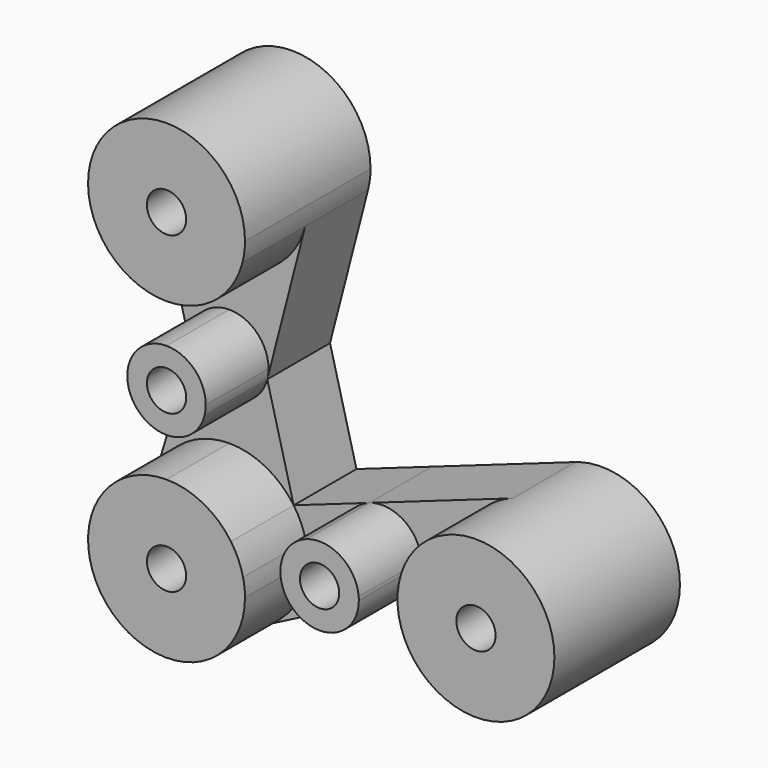
from build123d import *

# Parameters (mm, degrees)
F1_DEPTH = 50.8
F2_DEPTH = 25.4
F3_D     = 6.35
F3_2_D   = 6.35
F3_3_D   = 6.35
F3_4_D   = 6.35
F3_5_D   = 6.35
F4_D     = 12.7
F4_2_D   = 12.7
F4_3_D   = 12.7
F4_4_D   = 12.7
F4_5_D   = 12.7


with BuildPart() as f1:
    # F0 (on Front) → F1 (new body)
    with BuildSketch(Plane.XZ):
        with BuildLine():
            ThreePointArc((-275.2986628223, 8.8885812562), (-266.2594784405, -4.8418818859), (-250.7052185738, -10.1614187438))
            ThreePointArc((-250.7052185738, -10.1614187438), (-235.1509587072, -4.8418818859), (-226.1117743254, 8.8885812562))
            ThreePointArc((-226.1117743254, 8.8885812562), (-225.5076642886, 12.0380722271), (-225.3052185738, 15.2385812562))
            ThreePointArc((-225.3052185738, 15.2385812562), (-253.9057276029, 40.4361355414), (-275.2986628223, 8.8885812562))
        make_face()
    extrude(amount=F1_DEPTH)

    # F3 (through all)
    with Locations(Plane(origin=(0, 0, 0), x_dir=(1, 0, 0), z_dir=(0, 1, 0))):
        with Locations((-250.7052185738, -15.2385812562), (-250.7052185738, 35.5614187438), (-250.7052185738, 86.3614187438), (-201.151381854, 75.1785181209), (-150.5429993109, 70.7703874091)):
            Hole(F3_D / 2)

    # F4 (through all)
    with Locations(Plane(origin=(0, 0, 0), x_dir=(1, 0, 0), z_dir=(0, 1, 0))):
        with Locations((-250.7052185738, -15.2385812562), (-250.7052185738, 35.5614187438), (-250.7052185738, 86.3614187438), (-201.151381854, 75.1785181209), (-150.5429993109, 70.7703874091)):
            Hole(F4_D / 2)


with BuildPart() as f1b:
    # F0 (on Front) → F1, piece 2 (new body)
    with BuildSketch(Plane.XZ):
        with BuildLine():
            ThreePointArc((-238.0052185738, -35.5614187438), (-241.7249624528, -26.5811626228), (-250.7052185738, -22.8614187438))
            Line((-250.7052185738, -22.8614187438), (-250.7052185738, -35.5614187438))
            Line((-250.7052185738, -35.5614187438), (-250.7052185738, -48.2614187438))
            ThreePointArc((-250.7052185738, -48.2614187438), (-242.9280886405, -45.6016503149), (-238.4084964496, -38.7364187438))
            ThreePointArc((-238.4084964496, -38.7364187438), (-238.1064414312, -37.1616732584), (-238.0052185738, -35.5614187438))
        make_face()
        with BuildLine():
            Line((-250.7052185738, -35.5614187438), (-250.7052185738, -22.8614187438))
            ThreePointArc((-250.7052185738, -22.8614187438), (-260.7454501449, -27.7842888105), (-263.001940698, -38.7364187438))
            ThreePointArc((-263.001940698, -38.7364187438), (-258.4823485072, -45.6016503149), (-250.7052185738, -48.2614187438))
            Line((-250.7052185738, -48.2614187438), (-250.7052185738, -35.5614187438))
        make_face()
    extrude(amount=F1_DEPTH)

    # F3#2 (through all)
    with Locations(Plane(origin=(0, 0, 0), x_dir=(1, 0, 0), z_dir=(0, 1, 0))):
        with Locations((-250.7052185738, -15.2385812562), (-250.7052185738, 35.5614187438), (-250.7052185738, 86.3614187438), (-201.151381854, 75.1785181209), (-150.5429993109, 70.7703874091)):
            Hole(F3_2_D / 2)

    # F4#2 (through all)
    with Locations(Plane(origin=(0, 0, 0), x_dir=(1, 0, 0), z_dir=(0, 1, 0))):
        with Locations((-250.7052185738, -15.2385812562), (-250.7052185738, 35.5614187438), (-250.7052185738, 86.3614187438), (-201.151381854, 75.1785181209), (-150.5429993109, 70.7703874091)):
            Hole(F4_2_D / 2)


with BuildPart() as f1c:
    # F0 (on Front) → F1, piece 3 (new body)
    with BuildSketch(Plane.XZ):
        with BuildLine():
            ThreePointArc((-250.7052185738, -60.9614187438), (-265.8825125384, -65.9945400455), (-275.0449118924, -79.0992338688))
            ThreePointArc((-275.0449118924, -79.0992338688), (-266.9331432174, -105.901491972), (-239.0970904995, -108.9537042105))
            ThreePointArc((-239.0970904995, -108.9537042105), (-229.0256607706, -99.5960994523), (-225.3052185738, -86.3614187438))
            ThreePointArc((-225.3052185738, -86.3614187438), (-225.4614695818, -83.548388913), (-225.9283002139, -80.7699684324))
            Line((-225.9283002139, -80.7699684324), (-250.7052185738, -86.3614187438))
            Line((-250.7052185738, -86.3614187438), (-250.7052185738, -60.9614187438))
        make_face()
        with BuildLine():
            ThreePointArc((-225.9283002139, -80.7699684324), (-227.4615465931, -76.1197532128), (-229.8585710724, -71.850137341))
            ThreePointArc((-229.8585710724, -71.850137341), (-238.945680905, -63.847572475), (-250.7052185738, -60.9614187438))
            Line((-250.7052185738, -60.9614187438), (-250.7052185738, -86.3614187438))
            Line((-250.7052185738, -86.3614187438), (-225.9283002139, -80.7699684324))
        make_face()
    extrude(amount=F1_DEPTH)

    # F3#3 (through all)
    with Locations(Plane(origin=(0, 0, 0), x_dir=(1, 0, 0), z_dir=(0, 1, 0))):
        with Locations((-250.7052185738, -15.2385812562), (-250.7052185738, 35.5614187438), (-250.7052185738, 86.3614187438), (-201.151381854, 75.1785181209), (-150.5429993109, 70.7703874091)):
            Hole(F3_3_D / 2)

    # F4#3 (through all)
    with Locations(Plane(origin=(0, 0, 0), x_dir=(1, 0, 0), z_dir=(0, 1, 0))):
        with Locations((-250.7052185738, -15.2385812562), (-250.7052185738, 35.5614187438), (-250.7052185738, 86.3614187438), (-201.151381854, 75.1785181209), (-150.5429993109, 70.7703874091)):
            Hole(F4_3_D / 2)


with BuildPart() as f1d:
    # F0 (on Front) → F1, piece 4 (new body)
    with BuildSketch(Plane.XZ):
        with BuildLine():
            ThreePointArc((-188.4992862182, -74.076485443), (-194.2748205624, -64.5013038399), (-205.3814443151, -63.2036873674))
            ThreePointArc((-205.3814443151, -63.2036873674), (-212.2683124488, -69.0381717016), (-213.5398410339, -77.9742432766))
            Line((-213.5398410339, -77.9742432766), (-201.151381854, -75.1785181209))
            Line((-201.151381854, -75.1785181209), (-188.4992862182, -74.076485443))
        make_face()
        with BuildLine():
            ThreePointArc((-213.5398410339, -77.9742432766), (-206.5275179755, -86.6844800712), (-195.3473178168, -86.4746608543))
            ThreePointArc((-195.3473178168, -86.4746608543), (-190.3116029524, -81.7958584752), (-188.451381854, -75.1785181209))
            ThreePointArc((-188.451381854, -75.1785181209), (-188.4633635971, -74.6269814378), (-188.4992862182, -74.076485443))
            Line((-188.4992862182, -74.076485443), (-201.151381854, -75.1785181209))
            Line((-201.151381854, -75.1785181209), (-213.5398410339, -77.9742432766))
        make_face()
    extrude(amount=F1_DEPTH)

    # F3#4 (through all)
    with Locations(Plane(origin=(0, 0, 0), x_dir=(1, 0, 0), z_dir=(0, 1, 0))):
        with Locations((-250.7052185738, -15.2385812562), (-250.7052185738, 35.5614187438), (-250.7052185738, 86.3614187438), (-201.151381854, 75.1785181209), (-150.5429993109, 70.7703874091)):
            Hole(F3_4_D / 2)

    # F4#4 (through all)
    with Locations(Plane(origin=(0, 0, 0), x_dir=(1, 0, 0), z_dir=(0, 1, 0))):
        with Locations((-250.7052185738, -15.2385812562), (-250.7052185738, 35.5614187438), (-250.7052185738, 86.3614187438), (-201.151381854, 75.1785181209), (-150.5429993109, 70.7703874091)):
            Hole(F4_4_D / 2)


with BuildPart() as f1e:
    # F0 (on Front) → F1, piece 5 (new body)
    with BuildSketch(Plane.XZ):
        with BuildLine():
            ThreePointArc((-125.1429993109, -70.7703874091), (-135.8754700886, -50.0333773423), (-159.0031242331, -46.8207259021))
            ThreePointArc((-159.0031242331, -46.8207259021), (-171.897427873, -57.017264826), (-175.8471905824, -72.974452765))
            ThreePointArc((-175.8471905824, -72.974452765), (-169.7198507425, -87.4259681306), (-156.268752864, -95.5166143185))
            ThreePointArc((-156.268752864, -95.5166143185), (-134.7359461423, -90.6524665289), (-125.1429993109, -70.7703874091))
        make_face()
    extrude(amount=F1_DEPTH)

    # F3#5 (through all)
    with Locations(Plane(origin=(0, 0, 0), x_dir=(1, 0, 0), z_dir=(0, 1, 0))):
        with Locations((-250.7052185738, -15.2385812562), (-250.7052185738, 35.5614187438), (-250.7052185738, 86.3614187438), (-201.151381854, 75.1785181209), (-150.5429993109, 70.7703874091)):
            Hole(F3_5_D / 2)

    # F4#5 (through all)
    with Locations(Plane(origin=(0, 0, 0), x_dir=(1, 0, 0), z_dir=(0, 1, 0))):
        with Locations((-250.7052185738, -15.2385812562), (-250.7052185738, 35.5614187438), (-250.7052185738, 86.3614187438), (-201.151381854, 75.1785181209), (-150.5429993109, 70.7703874091)):
            Hole(F4_5_D / 2)


with BuildPart() as f2:
    # F0 (on Front) → F2 (new body)
    with BuildSketch(Plane.XZ):
        with BuildLine():
            Line((-250.7052185738, -22.8614187438), (-250.7052185738, -10.1614187438))
            ThreePointArc((-250.7052185738, -10.1614187438), (-266.2594784405, -4.8418818859), (-275.2986628223, 8.8885812562))
            Line((-275.2986628223, 8.8885812562), (-263.001940698, -38.7364187438))
            ThreePointArc((-263.001940698, -38.7364187438), (-260.7454501449, -27.7842888105), (-250.7052185738, -22.8614187438))
        make_face()
        with BuildLine():
            ThreePointArc((-226.1117743254, 8.8885812562), (-235.1509587072, -4.8418818859), (-250.7052185738, -10.1614187438))
            Line((-250.7052185738, -10.1614187438), (-250.7052185738, -22.8614187438))
            ThreePointArc((-250.7052185738, -22.8614187438), (-241.7249624528, -26.5811626228), (-238.0052185738, -35.5614187438))
            ThreePointArc((-238.0052185738, -35.5614187438), (-238.1064414312, -37.1616732584), (-238.4084964496, -38.7364187438))
            Line((-238.4084964496, -38.7364187438), (-226.1117743254, 8.8885812562))
        make_face()
    extrude(amount=F2_DEPTH)


with BuildPart() as f2b:
    # F0 (on Front) → F2, piece 2 (new body)
    with BuildSketch(Plane.XZ):
        with BuildLine():
            Line((-229.8585710724, -71.850137341), (-238.4084964496, -38.7364187438))
            ThreePointArc((-238.4084964496, -38.7364187438), (-242.9280886405, -45.6016503149), (-250.7052185738, -48.2614187438))
            Line((-250.7052185738, -48.2614187438), (-250.7052185738, -60.9614187438))
            ThreePointArc((-250.7052185738, -60.9614187438), (-238.945680905, -63.847572475), (-229.8585710724, -71.850137341))
        make_face()
        with BuildLine():
            ThreePointArc((-250.7052185738, -48.2614187438), (-258.4823485072, -45.6016503149), (-263.001940698, -38.7364187438))
            Line((-263.001940698, -38.7364187438), (-275.0449118924, -79.0992338688))
            ThreePointArc((-275.0449118924, -79.0992338688), (-265.8825125384, -65.9945400455), (-250.7052185738, -60.9614187438))
            Line((-250.7052185738, -60.9614187438), (-250.7052185738, -48.2614187438))
        make_face()
    extrude(amount=F2_DEPTH)


with BuildPart() as f2c:
    # F0 (on Front) → F2, piece 3 (new body)
    with BuildSketch(Plane.XZ):
        with BuildLine():
            Line((-159.0031242331, -46.8207259021), (-205.3814443151, -63.2036873674))
            ThreePointArc((-205.3814443151, -63.2036873674), (-194.2748205624, -64.5013038399), (-188.4992862182, -74.076485443))
            Line((-188.4992862182, -74.076485443), (-175.8471905824, -72.974452765))
            ThreePointArc((-175.8471905824, -72.974452765), (-171.897427873, -57.017264826), (-159.0031242331, -46.8207259021))
        make_face()
        with BuildLine():
            ThreePointArc((-188.451381854, -75.1785181209), (-190.3116029524, -81.7958584752), (-195.3473178168, -86.4746608543))
            Line((-195.3473178168, -86.4746608543), (-156.268752864, -95.5166143185))
            ThreePointArc((-156.268752864, -95.5166143185), (-169.7198507425, -87.4259681306), (-175.8471905824, -72.974452765))
            Line((-175.8471905824, -72.974452765), (-188.4992862182, -74.076485443))
            ThreePointArc((-188.4992862182, -74.076485443), (-188.4633635971, -74.6269814378), (-188.451381854, -75.1785181209))
        make_face()
    extrude(amount=F2_DEPTH)


with BuildPart() as f2d:
    # F0 (on Front) → F2, piece 4 (new body)
    with BuildSketch(Plane.XZ):
        with BuildLine():
            ThreePointArc((-225.3052185738, -86.3614187438), (-229.0256607706, -99.5960994523), (-239.0970904995, -108.9537042105))
            Line((-239.0970904995, -108.9537042105), (-195.3473178168, -86.4746608543))
            ThreePointArc((-195.3473178168, -86.4746608543), (-206.5275179755, -86.6844800712), (-213.5398410339, -77.9742432766))
            Line((-213.5398410339, -77.9742432766), (-225.9283002139, -80.7699684324))
            ThreePointArc((-225.9283002139, -80.7699684324), (-225.4614695818, -83.548388913), (-225.3052185738, -86.3614187438))
        make_face()
        with BuildLine():
            Line((-205.3814443151, -63.2036873674), (-229.8585710724, -71.850137341))
            ThreePointArc((-229.8585710724, -71.850137341), (-227.4615465931, -76.1197532128), (-225.9283002139, -80.7699684324))
            Line((-225.9283002139, -80.7699684324), (-213.5398410339, -77.9742432766))
            ThreePointArc((-213.5398410339, -77.9742432766), (-212.2683124488, -69.0381717016), (-205.3814443151, -63.2036873674))
        make_face()
    extrude(amount=F2_DEPTH)


solid = Compound([f1.part, f1b.part, f1c.part, f1d.part, f1e.part, f2.part, f2b.part, f2c.part, f2d.part])
